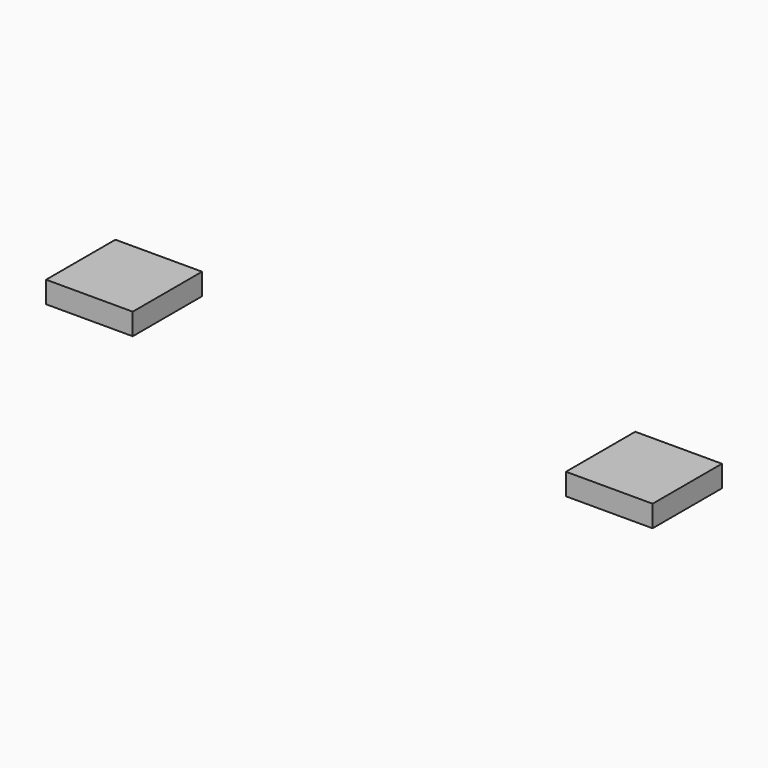
from build123d import *

# Parameters (mm, degrees)
F0_W     = 25.4
F0_H     = 6.35
F1_DEPTH = 12.7


with BuildPart() as f1:
    # F0 (on Front) → F1 (new body, symmetric)
    with BuildSketch(Plane.XZ):
        with Locations((-79.328354, -11.585954)):
            Rectangle(F0_W, F0_H)
        with Locations((73.071646, -11.585954)):
            Rectangle(F0_W, F0_H)
    extrude(amount=F1_DEPTH, both=True)


solid = f1.part
